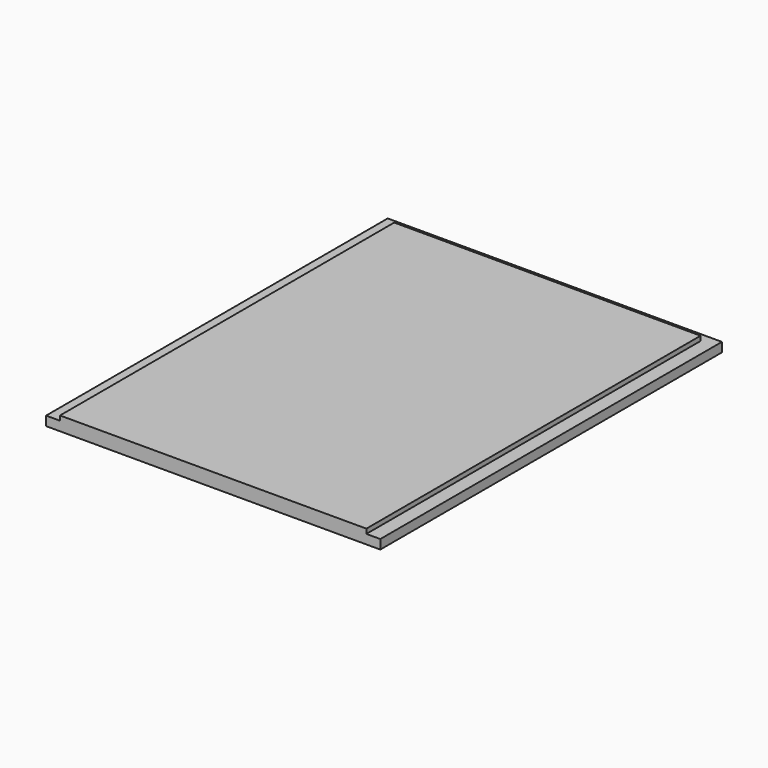
from build123d import *

# Parameters (mm, degrees)
F0_W     = 457.2
F0_H     = 584.2
F1_DEPTH = 19.05
F2_W     = 19.05
F2_H     = 584.2
F3_DEPTH = 6.35
F4_W     = 419.1
F4_H     = 12.7
F5_DEPTH = 6.35


with BuildPart() as f1:
    # F0 (on Top) → F1 (new body)
    with BuildSketch(Plane.XY):
        with Locations((0, -12.7)):
            Rectangle(F0_W, F0_H)
    extrude(amount=F1_DEPTH)

    # F2 (on face) → F3 (cut)
    with BuildSketch(Plane.XY.offset(19.05)):
        with Locations((219.075, -12.7)):
            Rectangle(F2_W, F2_H)
        with Locations((-219.075, -12.7)):
            Rectangle(F2_W, F2_H)
    extrude(amount=-F3_DEPTH, mode=Mode.SUBTRACT)

    # F4 (on face) → F5 (cut)
    with BuildSketch(Plane.XY.offset(19.05)):
        with Locations((0, 273.05)):
            Rectangle(F4_W, F4_H)
    extrude(amount=-F5_DEPTH, mode=Mode.SUBTRACT)


solid = f1.part
